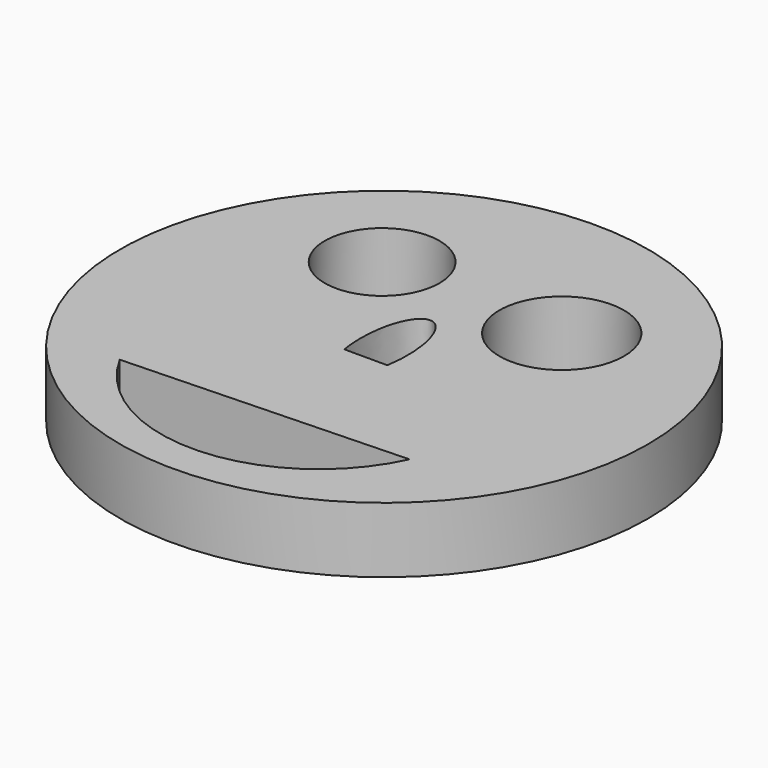
from build123d import *

# Parameters (mm, degrees)
F0_R     = 51.2028826098
F0_R_2   = 11.123942978
F0_R_3   = 12.0781304444
F1_DEPTH = 12.7


with BuildPart() as f1:
    # F0 (on Top) → F1 (new body)
    with BuildSketch(Plane.XY):
        Circle(F0_R)
        with BuildLine():
            ThreePointArc((26.0693728924, -26.4278631657), (-0.7005850014, -44.2258215238), (-28.6329444498, -28.3141508698))
            Line((-28.6329444498, -28.3141508698), (26.0693728924, -26.4278631657))
        make_face(mode=Mode.SUBTRACT)
        with BuildLine():
            add(Edge.make_bspline(
                [(4.1622381729, -4.4216929377), (6.8932937771, 11.1605301499), (0, 11.1605301499), (-6.8932937771, 11.1605301499), (-4.1622381729, -4.4216929377)],
                knots=[1.1634325355, 1.1634325355, 1.1634325355, 3.1415926536, 3.1415926536, 5.1197527717, 5.1197527717, 5.1197527717], degree=2, weights=[1, 0.5494587228, 1, 0.5494587228, 1]))
            Line((4.1622381729, -4.4216929377), (-4.1622381729, -4.4216929377))
        make_face(mode=Mode.SUBTRACT)
        with Locations((-17.6053456962, 21.5351078659)):
            Circle(F0_R_2, mode=Mode.SUBTRACT)
        with Locations((18.2341039181, 20.2775839716)):
            Circle(F0_R_3, mode=Mode.SUBTRACT)
    extrude(amount=F1_DEPTH)


solid = f1.part
